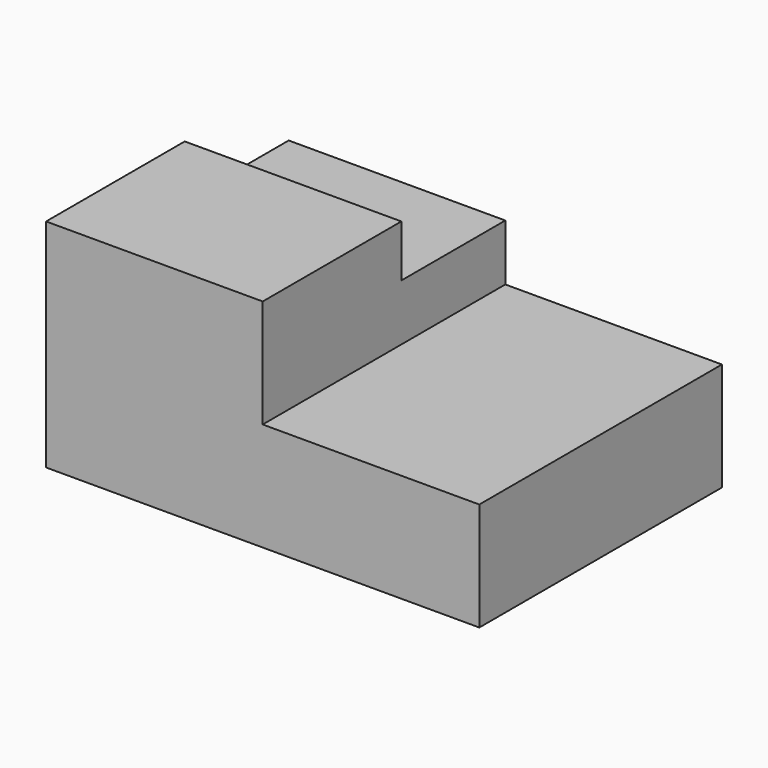
from build123d import *

# Parameters (mm, degrees)
F0_W     = 2540
F0_H     = 1778
F1_DEPTH = 635
F2_W     = 1270
F2_H     = 1016
F3_DEPTH = 635
F4_W     = 1270
F4_H     = 762
F5_DEPTH = 330.2


with BuildPart() as f1:
    # F0 (on Top) → F1 (new body)
    with BuildSketch(Plane.XY):
        with Locations((-1270, 889)):
            Rectangle(F0_W, F0_H)
        with Locations((-1270, 889)):
            Rectangle(F0_W, F0_H)
    extrude(amount=F1_DEPTH)

    # F2 (on face) → F3 (join)
    with BuildSketch(Plane.XY.offset(635)):
        with Locations((-1905, 508)):
            Rectangle(F2_W, F2_H)
    extrude(amount=F3_DEPTH)

    # F4 (on face) → F5 (join)
    with BuildSketch(Plane.XY.offset(635)):
        with Locations((-1905, 1397)):
            Rectangle(F4_W, F4_H)
    extrude(amount=F5_DEPTH)


solid = f1.part
